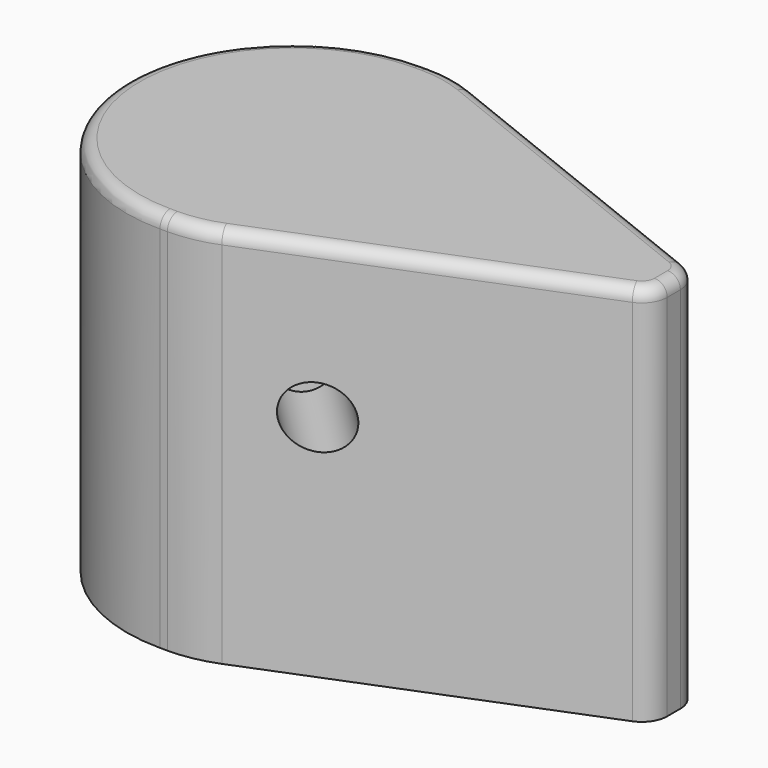
from build123d import *

# Parameters (mm, degrees)
F2_W      = 1.2519505165
F2_H      = 13
F3_DEPTH  = 15
F4_R      = 5
F5_R      = 1
F6_R      = 3.05
F7_DEPTH  = 13
F8_R      = 0.5
F10_R     = 1.2
F11_DEPTH = 12.5


with BuildPart() as f1:
    # F0 (on Front) → F1 (revolve)
    with BuildSketch(Plane.XZ):
        Polygon((-5, 0), (0, 0), (0, 15), (-6.5, 15), (-6.5, 0), align=None)
    revolve(axis=Axis((0, 0, -3.6677676575), (0, 0, -1)))

    # F2 (on Top) → F3 (join)
    with BuildSketch(Plane.XY):
        with BuildLine():
            Line((0, -6.5), (0, 6.5))
            ThreePointArc((0, 6.5), (-6.5, 0), (0, -6.5))
        make_face()
        with Locations((0.6259752583, 0)):
            Rectangle(F2_W, F2_H)
        Polygon((15, 1), (1.2519505165, 6.5), (1.2519505165, -6.5), (15, -1), align=None)
    extrude(amount=F3_DEPTH)

    # F4
    f4_edges = [f1.edges().sort_by_distance(p)[0] for p in [
        (1.251951, 6.5, 7.5),
        (1.251951, -6.5, 7.5),
    ]]
    fillet(f4_edges, radius=F4_R)

    # F5
    f5_edges = [f1.edges().sort_by_distance(p)[0] for p in [
        (15, 1, 7.5),
        (15, -1, 7.5),
    ]]
    fillet(f5_edges, radius=F5_R)

    # F6 (on face) → F7 (cut)
    with BuildSketch(Plane(origin=(0, 0, 0), x_dir=(1, 0, 0), z_dir=(0, 0, -1))):
        Circle(F6_R)
    extrude(amount=-F7_DEPTH, mode=Mode.SUBTRACT)

    # F8
    f8_edges = [f1.edges().sort_by_distance(p)[0] for p in [
        (8.258764, -3.696877, 15),
        (14.828081, -0.883611, 15),
        (1.234569, -6.409759, 15),
        (15, 0, 15),
        (0.144456, -6.5, 15),
        (14.828081, 0.883611, 15),
        (-6.5, 0, 15),
        (8.258764, 3.696877, 15),
        (0.144456, 6.5, 15),
        (1.234569, 6.409759, 15),
    ]]
    fillet(f8_edges, radius=F8_R)

    # F10 (on line) → F11 (cut, symmetric)
    with BuildSketch(Plane(origin=(0, 0, 0), x_dir=(-0.7071067812, -0.7071067812, 0), z_dir=(-0.7071067812, 0.7071067812, 0))):
        with Locations((0, 9)):
            Circle(F10_R)
    extrude(amount=F11_DEPTH, both=True, mode=Mode.SUBTRACT)


solid = f1.part
